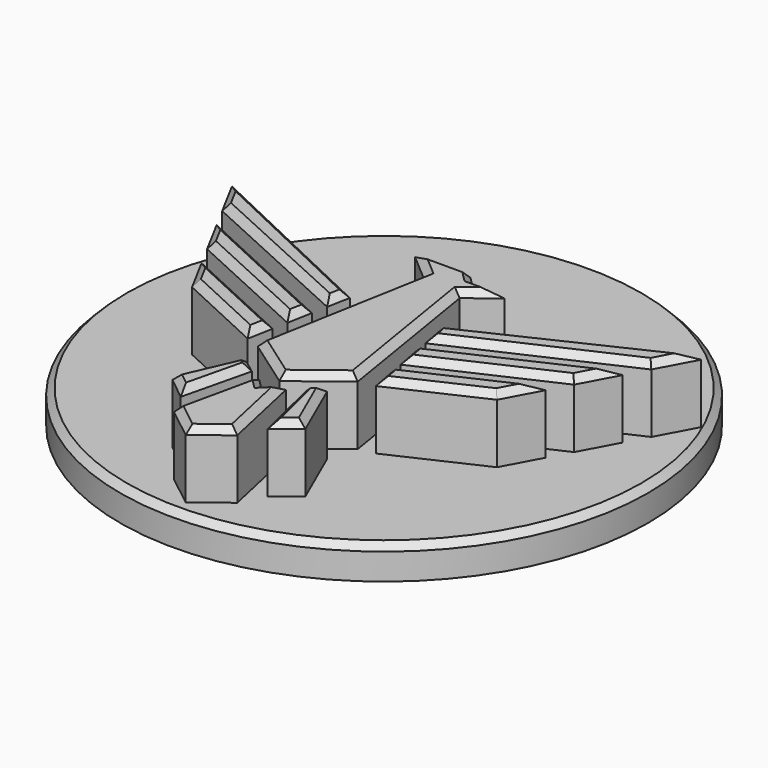
from build123d import *

# Parameters (mm, degrees)
F1_R     = 50.8
F2_DEPTH = 6.35
F3_DEPTH = 12.7
F4_SIZE  = 1.27


with BuildPart() as f2:
    # F1 (on Top) → F2 (new body)
    with BuildSketch(Plane.XY):
        with Locations((0, -2.54)):
            Circle(F1_R)
    extrude(amount=-F2_DEPTH)

    # F0 (on Top) → F3 (join)
    with BuildSketch(Plane.XY):
        Polygon((-6.086908, -45.471568), (0, -50.254583), (0, -31.927135), (-2.555521, -29.379172), align=None)
        Polygon((-9.557882, -20.976724), (0, -27.727479), (0, 16.502708), (-9.268431, 16.502708), (-3.650971, 11.680054), align=None)
        Polygon((0, 16.502708), (0, -27.727479), (9.31712, -20.555755), (4.304654, 10.251204), (9.598721, 14.418875), (3.459856, 14.418875), (1.376021, 16.502708), align=None)
        Polygon((0, -31.927135), (0, -50.254583), (6.086908, -45.471568), (2.555521, -29.379172), align=None)
        Polygon((-9.457259, -4.413513), (-8.638233, 0), (-45.155544, 17.297892), (-41.290144, 10.121377), align=None)
        Polygon((-33.105214, -5.074794), (-29.343309, -12.059161), (-12.3377, -19.935444), (-11.434127, -15.066333), align=None)
        Polygon((-10.896486, -12.169126), (-10.012336, -7.404675), (-39.080556, 6.019047), (-35.312879, -0.976036), align=None)
        Polygon((-5.192886, -27.859336), (-7.740849, -25.937188), (-12.792072, -37.470073), (-8.366664, -41.001458), align=None)
        Polygon((8.638233, 0), (9.457259, -4.413513), (41.290144, 10.121377), (45.155544, 17.297892), align=None)
        Polygon((10.012336, -7.404675), (10.896486, -12.169126), (35.312879, -0.976036), (39.080556, 6.019047), align=None)
        Polygon((8.366664, -41.001458), (12.792072, -37.470073), (7.740849, -25.937188), (5.192886, -27.859336), align=None)
        Polygon((29.343309, -12.059161), (33.105214, -5.074794), (11.434127, -15.066333), (12.3377, -19.935444), align=None)
    extrude(amount=F3_DEPTH)

    # F4
    f4_edges = [f2.edges().sort_by_distance(p)[0] for p in [
        (-26.896888, 8.648946, 12.7),
        (-43.222844, 13.709634, 12.7),
        (-9.047746, -2.206757, 12.7),
        (-25.373702, 2.853932, 12.7),
        (-24.546446, -0.692814, 12.7),
        (-10.454411, -9.7869, 12.7),
        (-23.104682, -6.572581, 12.7),
        (-37.196717, 2.521506, 12.7),
        (-31.224262, -8.566978, 12.7),
        (-22.269671, -10.070563, 12.7),
        (-20.840504, -15.997303, 12.7),
        (-11.885913, -17.500888, 12.7),
        (9.047746, -2.206757, 12.7),
        (26.896888, 8.648946, 12.7),
        (25.373702, 2.853932, 12.7),
        (43.222844, 13.709634, 12.7),
        (10.454411, -9.7869, 12.7),
        (24.546446, -0.692814, 12.7),
        (23.104682, -6.572581, 12.7),
        (37.196717, 2.521506, 12.7),
        (11.885913, -17.500888, 12.7),
        (22.269671, -10.070563, 12.7),
        (31.224262, -8.566978, 12.7),
        (20.840504, -15.997303, 12.7),
        (-10.26646, -31.70363, 12.7),
        (-6.466867, -26.898262, 12.7),
        (-6.779775, -34.430397, 12.7),
        (-10.579368, -39.235765, 12.7),
        (-3.043454, -47.863076, 12.7),
        (3.043454, -47.863076, 12.7),
        (4.321215, -37.42537, 12.7),
        (-4.321215, -37.42537, 12.7),
        (-1.277761, -30.653154, 12.7),
        (1.277761, -30.653154, 12.7),
        (6.779775, -34.430397, 12.7),
        (6.466867, -26.898262, 12.7),
        (10.26646, -31.70363, 12.7),
        (10.579368, -39.235765, 12.7),
        (-4.778941, -24.352102, 12.7),
        (4.65856, -24.141617, 12.7),
        (-6.604427, -4.648335, 12.7),
        (6.810887, -5.152275, 12.7),
        (-6.459701, 14.091381, 12.7),
        (-3.946205, 16.502708, 12.7),
        (2.417938, 15.460792, 12.7),
        (6.529288, 14.418875, 12.7),
        (6.951687, 12.33504, 12.7),
        (-50.8, -2.54, 0),
    ]]
    chamfer(f4_edges, length=F4_SIZE)


solid = f2.part
